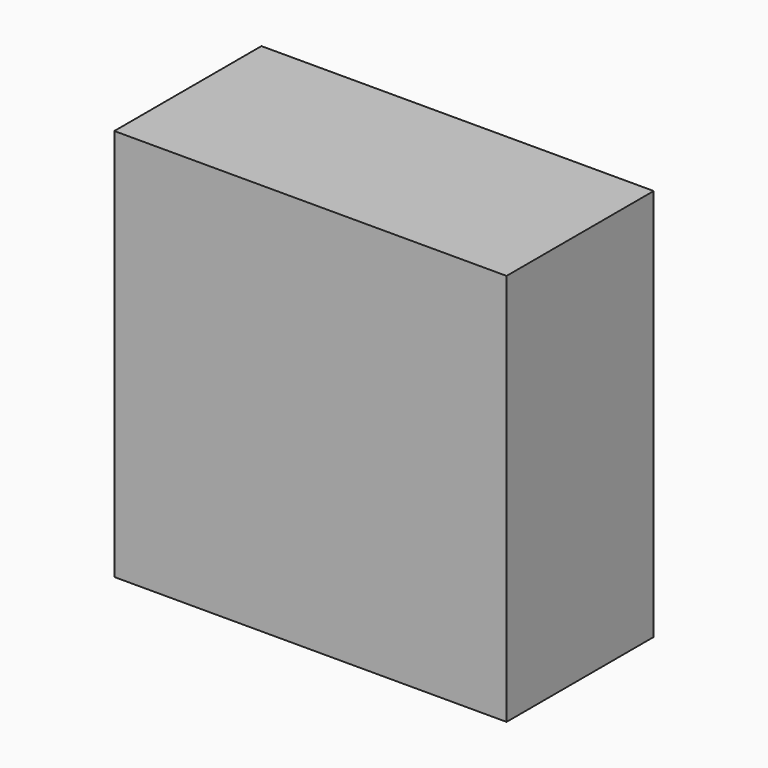
from build123d import *

# Parameters (mm, degrees)
F0_W     = 144.507817924
F0_H     = 104.2701918632
F1_DEPTH = 104.394
F2_DEPTH = 276.86
F3_DEPTH = 132.08
F4_W     = 276.587817924
F4_H     = 276.86
F4_R     = 25.1884721884
F4_R_2   = 24.4502004905
F4_R_3   = 28.2958784433
F4_R_4   = 27.5167719558
F5_DEPTH = 25.4


with BuildPart() as f1:
    # F0 (on Top) → F1 (new body)
    with BuildSketch(Plane.XY):
        with Locations((-1.7366670072, 21.054728888)):
            Rectangle(F0_W, F0_H)
    extrude(amount=F1_DEPTH)

    # F2 (add): a face of the model
    f2_faces = [f1.faces().sort_by_distance(p)[0] for p in [
        (-1.7366670072, 21.054728888, 104.394),
    ]]
    extrude(f2_faces, amount=-F2_DEPTH)

    # F3 (add): a face of the model
    f3_faces = [f1.faces().sort_by_distance(p)[0] for p in [
        (70.5172419548, 21.054728888, -34.036),
    ]]
    extrude(f3_faces, amount=F3_DEPTH)

    # F4 (on face) → F5 (join)
    with BuildSketch(Plane(origin=(0, 73.1898248196, 0), x_dir=(-1, 0, 0), z_dir=(0, 1, 0))):
        with Locations((-64.3033329928, -34.036)):
            Rectangle(F4_W, F4_H)
        with Locations((-170.0846999884, -71.3028535247)):
            Circle(F4_R, mode=Mode.SUBTRACT)
        with Locations((-32.8044444323, -52.5894537568)):
            Circle(F4_R_2, mode=Mode.SUBTRACT)
        with Locations((-163.5096520185, 28.9383083582)):
            Circle(F4_R_3, mode=Mode.SUBTRACT)
        with Locations((-21.1840029806, 19.6925438941)):
            Circle(F4_R_4, mode=Mode.SUBTRACT)
    extrude(amount=F5_DEPTH)


solid = f1.part
